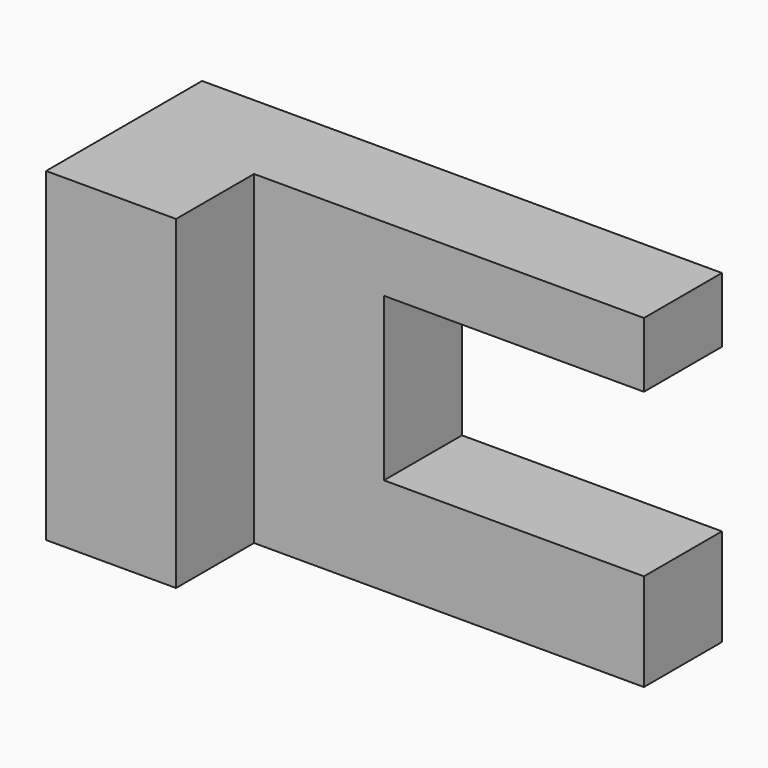
from build123d import *

# Parameters (mm, degrees)
F0_W     = 25.4
F0_H     = 19.05
F1_DEPTH = 63.5
F2_W     = 50.8
F2_H     = 31.75
F3_DEPTH = 19.051


with BuildPart() as f1:
    # F0 (on Top) → F1 (new body)
    with BuildSketch(Plane.XY):
        Polygon((50.8, 9.525), (-50.8, 9.525), (-50.8, -9.525), (-25.4, -9.525), (50.8, -9.525), align=None)
        with Locations((-38.1, -19.05)):
            Rectangle(F0_W, F0_H)
    extrude(amount=-F1_DEPTH)

    # F2 (on face) → F3 (cut, through all)
    with BuildSketch(Plane.XZ.offset(9.525)):
        with Locations((25.4, -28.575)):
            Rectangle(F2_W, F2_H)
    extrude(amount=-F3_DEPTH, mode=Mode.SUBTRACT)


solid = f1.part
